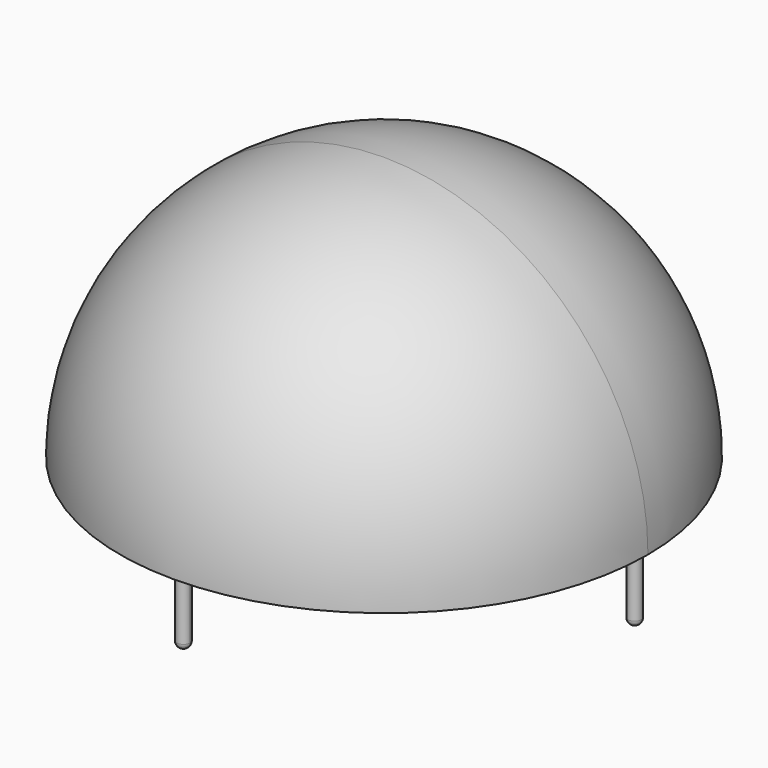
from build123d import *

# Parameters (mm, degrees)
F1_ANGLE = 180
F2_T     = -2.54
F3_R     = 0.6404955701
F4_DEPTH = 6.35
F5_R     = 0.6223


with BuildPart() as f1:
    # F0 (on Top) → F1 (revolve)
    with BuildSketch(Plane.XY):
        with BuildLine():
            ThreePointArc((0, -25.4), (17.9605122421, -17.9605122421), (25.4, 0))
            ThreePointArc((25.4, 0), (17.9605122421, 17.9605122421), (0, 25.4))
            Line((0, 25.4), (0, -25.4))
        make_face()
    revolve(axis=Axis((0, 0, 0), (0, -1, 0)), revolution_arc=F1_ANGLE)

    # F2
    f2_openings = [f1.faces().sort_by_distance(p)[0] for p in [
        (0, 0, 0),
    ]]
    offset(amount=F2_T, openings=f2_openings)

    # F3 (on face) → F4 (join)
    with BuildSketch(Plane(origin=(0, 0, 0), x_dir=(1, 0, 0), z_dir=(0, 0, -1))):
        with BuildLine():
            ThreePointArc((0.640305682, -24.1389330477), (0.4527644898, -23.6861685579), (0, -23.4986273657))
            ThreePointArc((0, -23.4986273657), (-0.4527644898, -24.5916975374), (0.640305682, -24.1389330477))
        make_face()
        with Locations((-24.1353996098, 0)):
            Circle(F3_R)
        with BuildLine():
            ThreePointArc((0.6374708081, 24.1298992187), (-0.4507599312, 24.5806591499), (0, 23.4924284106))
            ThreePointArc((0, 23.4924284106), (0.4507599312, 23.6791392875), (0.6374708081, 24.1298992187))
        make_face()
        with BuildLine():
            ThreePointArc((24.7483111336, 0), (24.118386209, 0.6299249246), (23.4884612844, 0))
            ThreePointArc((23.4884612844, 0), (24.118386209, -0.6299249246), (24.7483111336, 0))
        make_face()
    extrude(amount=F4_DEPTH)

    # F5
    f5_edges = [f1.edges().sort_by_distance(p)[0] for p in [
        (24.748311, 0, -6.35),
        (0, -24.76737, -6.35),
        (-24.775895, 0, -6.35),
        (-0.640306, 24.138933, -6.35),
    ]]
    fillet(f5_edges, radius=F5_R)


solid = f1.part
